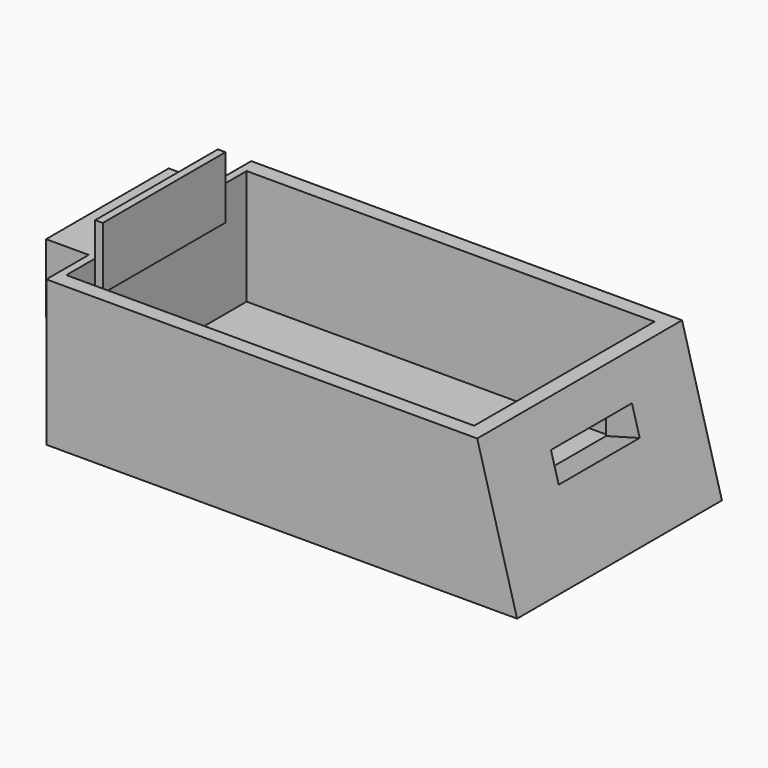
from build123d import *

# Parameters (mm, degrees)
F1_DEPTH = 21.209
F2_W     = 25.4
F2_H     = 11.43
F3_DEPTH = 7.0612
F4_W     = 16.764
F4_H     = 4.826
F5_DEPTH = 7.366
F6_W     = 67.564
F6_H     = 37.338
F7_DEPTH = 19.05
F8_W     = 25.4
F8_H     = 10.276243
F9_DEPTH = 1.27


with BuildPart() as f1:
    # F0 (on Front) → F1 (new body, symmetric)
    with BuildSketch(Plane.XZ):
        Polygon((-77.978, 0), (0, 0), (-6.604, 24.13), (-77.978, 24.13), align=None)
    extrude(amount=F1_DEPTH, both=True)

    # F2 (on face) → F3 (join)
    with BuildSketch(Plane(origin=(-77.978, 0, 0), x_dir=(0, -1, 0), z_dir=(-1, 0, 0))):
        with Locations((-0.254, 18.415)):
            Rectangle(F2_W, F2_H)
    extrude(amount=F3_DEPTH)

    # F4 (on face) → F5 (cut)
    with BuildSketch(Plane(origin=(0, 0, 0), x_dir=(0, 1, 0), z_dir=(0.964529, 0, 0.263976))):
        with Locations((0.254, 15.949588)):
            Rectangle(F4_W, F4_H)
    extrude(amount=-F5_DEPTH, mode=Mode.SUBTRACT)

    # F6 (on face) → F7 (cut)
    with BuildSketch(Plane.XY.offset(24.13)):
        with Locations((-42.926, 0)):
            Rectangle(F6_W, F6_H)
    extrude(amount=-F7_DEPTH, mode=Mode.SUBTRACT)

    # F8 (on face) → F9 (join)
    with BuildSketch(Plane.YZ.offset(-76.708)):
        with Locations((0, 24.579878)):
            Rectangle(F8_W, F8_H)
    extrude(amount=F9_DEPTH)


solid = f1.part
